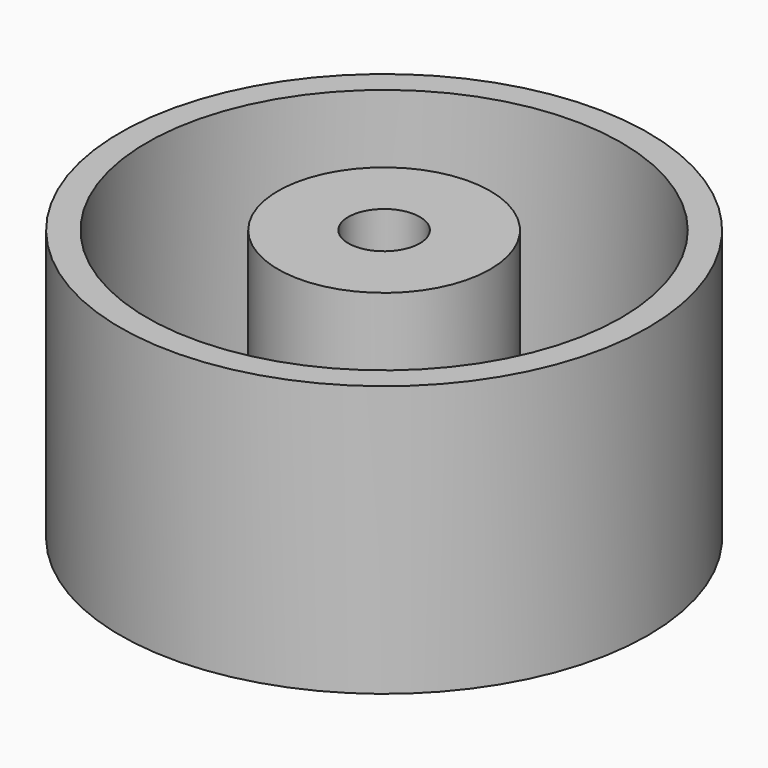
from build123d import *

# Parameters (mm, degrees)
SKETCH_R      = 7.9121
SKETCH_R_2    = 2.667
PAD_DEPTH     = 20.193
SKETCH001_R   = 19.6784
SKETCH001_R_2 = 5.334
PAD001_DEPTH  = 2
SKETCH002_R   = 19.6784
SKETCH002_R_2 = 17.6784
PAD002_DEPTH  = 20.193


with BuildPart() as part:
    # Sketch → Pad (new body)
    with BuildSketch(Plane.XY):
        Circle(SKETCH_R)
        Circle(SKETCH_R_2, mode=Mode.SUBTRACT)
    extrude(amount=PAD_DEPTH)

    # Sketch001 → Pad001 (join)
    with BuildSketch(Plane.XY):
        Circle(SKETCH001_R)
        Circle(SKETCH001_R_2, mode=Mode.SUBTRACT)
    extrude(amount=PAD001_DEPTH)

    # Sketch002 → Pad002 (join)
    with BuildSketch(Plane.XY):
        Circle(SKETCH002_R)
        Circle(SKETCH002_R_2, mode=Mode.SUBTRACT)
    extrude(amount=PAD002_DEPTH)


solid = part.part
